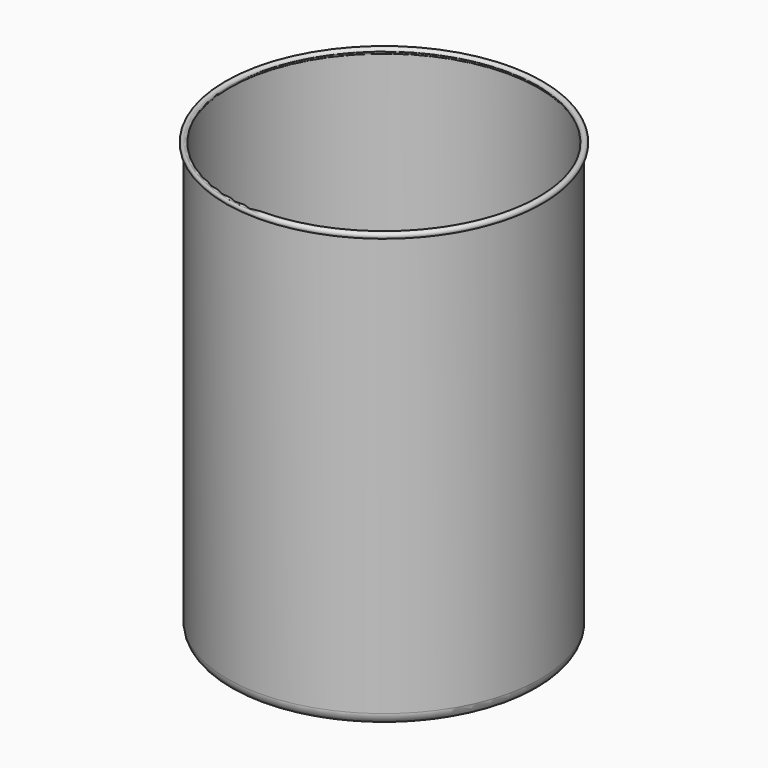
from build123d import *

# Parameters (mm, degrees)
F0_R     = 165.1
F1_DEPTH = 457.2
F2_R     = 12.7
F3_T     = -1.5875
F4_R     = 3.175


with BuildPart() as f1:
    # F0 (on Top) → F1 (new body)
    with BuildSketch(Plane.XY):
        Circle(F0_R)
    extrude(amount=F1_DEPTH)

    # F2
    f2_edges = [f1.edges().sort_by_distance(p)[0] for p in [
        (-165.1, 0, 0),
    ]]
    fillet(f2_edges, radius=F2_R)

    # F3
    f3_openings = [f1.faces().sort_by_distance(p)[0] for p in [
        (0, 0, 457.2),
    ]]
    offset(amount=F3_T, openings=f3_openings)

    # F4 (on Front) → F5 (revolve)
    with BuildSketch(Plane.XZ):
        with Locations((-165.1, 457.2)):
            Circle(F4_R)
    revolve(axis=Axis((0, 0, 457.2), (0, 0, 1)))


solid = f1.part
